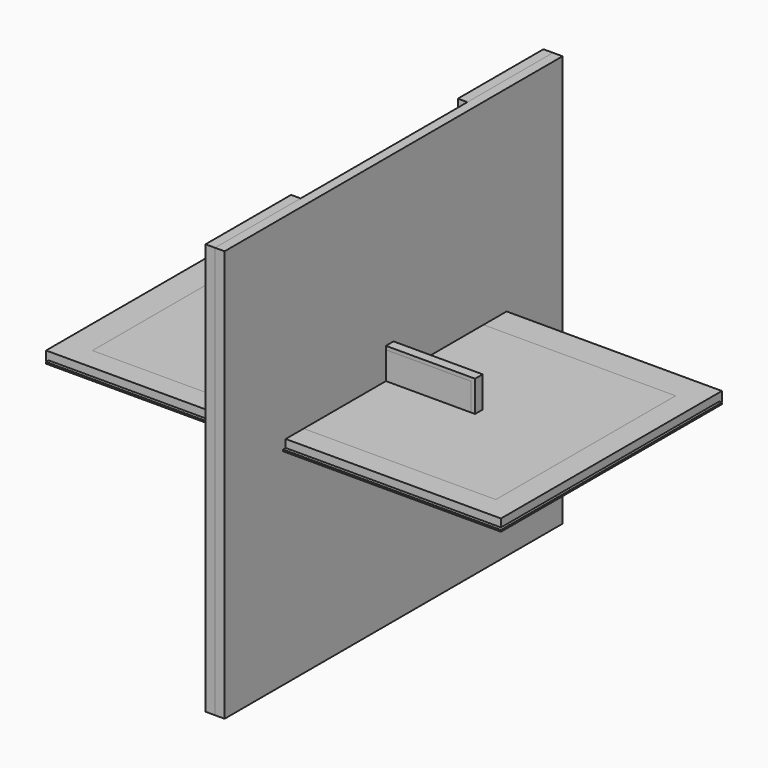
from build123d import *

# Parameters (mm, degrees)
F0_W      = 840
F0_H      = 510
F1_DEPTH  = 3
F2_DEPTH  = 17.6
F4_W      = 840
F4_H      = 510
F5_DEPTH  = 3
F3_W      = 476
F3_H      = 270
F6_DEPTH  = 25
F7_W      = 197.5
F7_H      = 228
F8_DEPTH  = 17.6
F10_DEPTH = 17.6
F12_DEPTH = 17.6
F13_W     = 415
F13_H     = 760
F14_DEPTH = 17.6
F7_W_2    = 385
F15_DEPTH = 17.6
F16_W     = 745
F16_H     = 415
F17_DEPTH = 17.6
F18_W     = 350
F18_H     = 123
F19_DEPTH = 17.6
F20_W     = 350
F20_H     = 150
F20_R     = 15.875
F20_R_2   = 9.75
F21_DEPTH = 17.6
F22_W     = 350
F22_H     = 70
F23_DEPTH = 17.6
F24_W     = 350
F24_H     = 137
F25_DEPTH = 17.6
F26_W     = 744.8
F26_H     = 415
F27_DEPTH = 17.6


with BuildPart() as f1:
    # F0 (on Top) → F1 (new body)
    with BuildSketch(Plane.XY):
        with Locations((-4.8496063054, 5.9815743535)):
            Rectangle(F0_W, F0_H)
    extrude(amount=F1_DEPTH)

    # F0 (on Top) → F2 (join)
    with BuildSketch(Plane.XY):
        with Locations((-4.8496063054, 5.9815743535)):
            Rectangle(F0_W, F0_H)
    extrude(amount=F2_DEPTH)

    # F3 (on face) → F6 (cut)
    with BuildSketch(Plane.XY.offset(17.6)):
        Rectangle(F3_W, F3_H)
    extrude(amount=-F6_DEPTH, mode=Mode.SUBTRACT)


with BuildPart() as f5:
    # F4 (on Top) → F5 (new body)
    with BuildSketch(Plane.XY):
        Rectangle(F4_W, F4_H)
    extrude(amount=F5_DEPTH)


with BuildPart() as f8:
    # F7 (on Right) → F8 (new body)
    with BuildSketch(Plane.YZ):
        Polygon((390, -380), (390, 152), (192.5, 152), (-192.5, 152), (-390, 152), (-390, -380), align=None)
        with Locations((291.25, 266)):
            Rectangle(F7_W, F7_H)
        with Locations((-291.25, 266)):
            Rectangle(F7_W, F7_H)
    extrude(amount=-F8_DEPTH)


with BuildPart() as f10:
    # F9 (on Right) → F10 (new body)
    with BuildSketch(Plane.YZ):
        with BuildLine():
            Line((-84, -114.5), (84, -114.5))
            Line((84, -114.5), (84, 36.5))
            Line((84, 36.5), (-4, 36.5))
            ThreePointArc((-4, 36.5), (-18.1421356237, 42.3578643763), (-24, 56.5))
            Line((-24, 56.5), (-24, 104.5))
            ThreePointArc((-24, 104.5), (-26.9289321881, 111.5710678119), (-34, 114.5))
            Line((-34, 114.5), (-84, 114.5))
            Line((-84, 114.5), (-84, 36.5))
            Line((-84, 36.5), (-84, -114.5))
        make_face()
    extrude(amount=F10_DEPTH)

    # F11 (on face) → F12 (cut)
    with BuildSketch(Plane.YZ.offset(17.6)):
        with BuildLine():
            Line((84, 36.5), (64, 36.5))
            ThreePointArc((64, 36.5), (78.1421356237, 30.6421356237), (84, 16.5))
            Line((84, 16.5), (84, 36.5))
        make_face()
    extrude(amount=-F12_DEPTH, mode=Mode.SUBTRACT)


with BuildPart() as f14:
    # F13 (on Right) → F14 (new body)
    with BuildSketch(Plane.YZ):
        Rectangle(F13_W, F13_H)
    extrude(amount=F14_DEPTH)


with BuildPart() as f15:
    # F7 (on Right) → F15 (new body)
    with BuildSketch(Plane.YZ):
        with Locations((291.25, 266)):
            Rectangle(F7_W, F7_H)
        with Locations((0, 266)):
            Rectangle(F7_W_2, F7_H)
        Polygon((390, -380), (390, 152), (192.5, 152), (-192.5, 152), (-390, 152), (-390, -380), align=None)
        with Locations((-291.25, 266)):
            Rectangle(F7_W, F7_H)
    extrude(amount=F15_DEPTH)


with BuildPart() as f17:
    # F16 (on Top) → F17 (new body)
    with BuildSketch(Plane.XY):
        Rectangle(F16_W, F16_H)
    extrude(amount=F17_DEPTH)


with BuildPart() as f19:
    # F18 (on Front) → F19 (new body)
    with BuildSketch(Plane.XZ):
        Rectangle(F18_W, F18_H)
    extrude(amount=F19_DEPTH)


with BuildPart() as f21:
    # F20 (on Front) → F21 (new body)
    with BuildSketch(Plane.XZ):
        with Locations((7.1220991095, 0)):
            Rectangle(F20_W, F20_H)
        with Locations((48.1302849948, -12.3580349609)):
            Circle(F20_R, mode=Mode.SUBTRACT)
        with Locations((-79.1216364578, 0)):
            Circle(F20_R_2, mode=Mode.SUBTRACT)
        with Locations((88.2388576865, 25.0766351819)):
            Circle(F20_R, mode=Mode.SUBTRACT)
    extrude(amount=F21_DEPTH)


with BuildPart() as f23:
    # F22 (on Front) → F23 (new body)
    with BuildSketch(Plane.XZ):
        Rectangle(F22_W, F22_H)
    extrude(amount=F23_DEPTH)


with BuildPart() as f25:
    # F24 (on Front) → F25 (new body)
    with BuildSketch(Plane.XZ):
        Rectangle(F24_W, F24_H)
    extrude(amount=F25_DEPTH)


with BuildPart() as f27:
    # F26 (on Top) → F27 (new body)
    with BuildSketch(Plane.XY):
        Rectangle(F26_W, F26_H)
    extrude(amount=F27_DEPTH)


solid = Compound([f1.part, f5.part, f8.part, f10.part, f14.part, f15.part, f17.part, f19.part, f21.part, f23.part, f25.part, f27.part])
